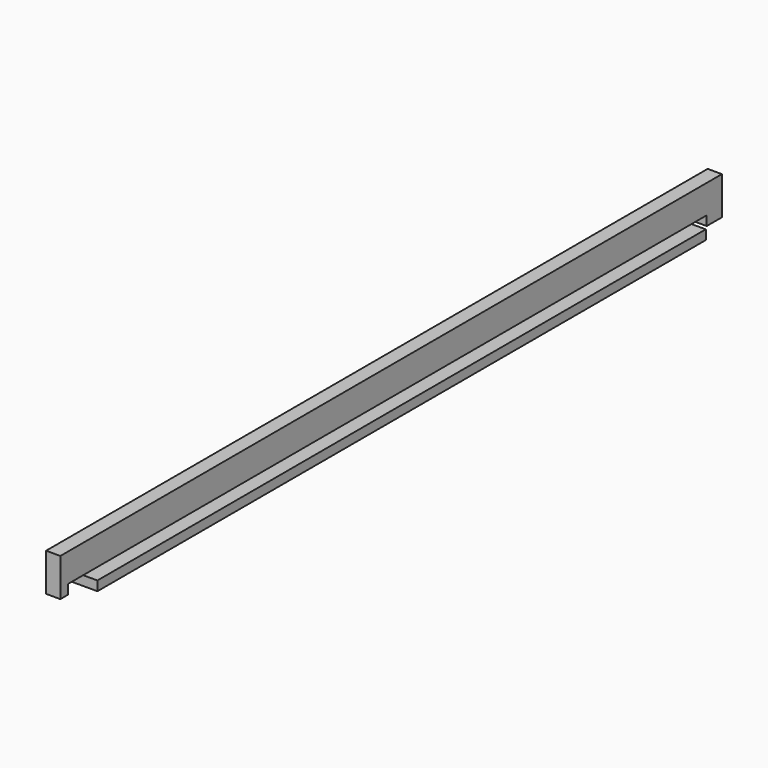
from build123d import *

# Parameters (mm, degrees)
F1_DEPTH = 38.1
F2_W     = 38.1
F2_H     = 25.4
F3_DEPTH = 2133.6
F4_DEPTH = 101.6


with BuildPart() as f1:
    # F0 (on Right) → F1 (new body)
    with BuildSketch(Plane.YZ):
        Polygon((1104.9, 50.8), (-1104.9, 50.8), (-1104.9, -50.8), (-1079.5, -50.8), (-1079.5, -25.4), (-1028.7, -25.4), (-1028.7, -50.8), (1003.3, -50.8), (1003.3, -25.4), (1054.1, -25.4), (1054.1, -50.8), (1104.9, -50.8), align=None)
    extrude(amount=F1_DEPTH)

    # F2 (on face) → F3 (join)
    with BuildSketch(Plane(origin=(0, 1104.9, 0), x_dir=(-1, 0, 0), z_dir=(0, 1, 0))):
        with Locations((-57.15, -38.1)):
            Rectangle(F2_W, F2_H)
    extrude(amount=-F3_DEPTH)

    # F2 (on face) → F4 (cut)
    with BuildSketch(Plane(origin=(0, 1104.9, 0), x_dir=(-1, 0, 0), z_dir=(0, 1, 0))):
        with Locations((-57.15, -38.1)):
            Rectangle(F2_W, F2_H)
    extrude(amount=-F4_DEPTH, mode=Mode.SUBTRACT)


solid = f1.part
